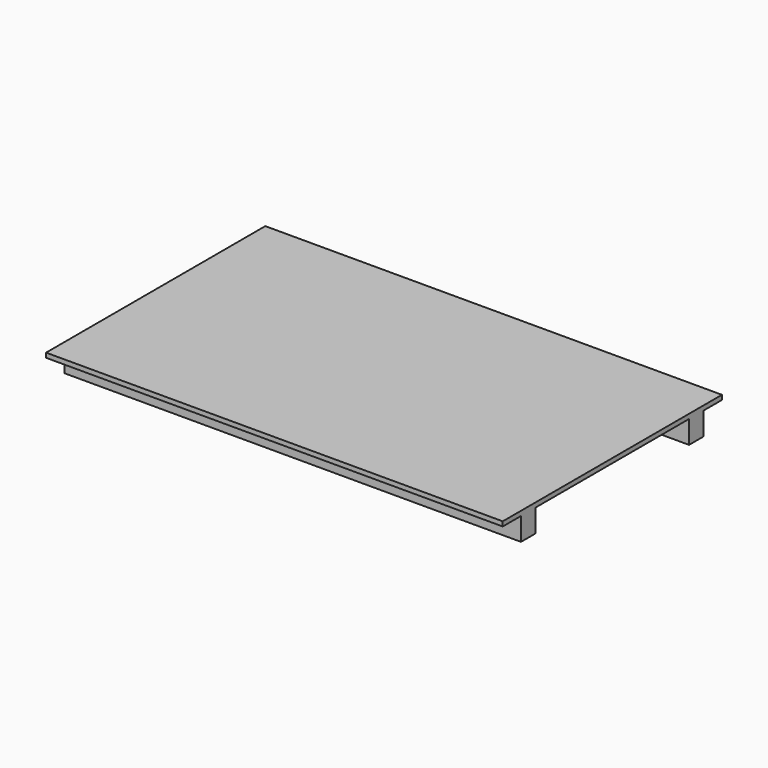
from build123d import *

# Parameters (mm, degrees)
F0_W     = 5000
F0_H     = 3000
F1_DEPTH = 50
F2_W     = 5000
F2_H     = 200
F3_DEPTH = 250


with BuildPart() as f1:
    # F0 (on Top) → F1 (new body)
    with BuildSketch(Plane.XY):
        with Locations((2500, -1500)):
            Rectangle(F0_W, F0_H)
        with Locations((2500, -1500)):
            Rectangle(F0_W, F0_H)
    extrude(amount=F1_DEPTH)

    # F2 (on face) → F3 (join)
    with BuildSketch(Plane(origin=(0, 0, 0), x_dir=(1, 0, 0), z_dir=(0, 0, -1))):
        with Locations((2500, 2650)):
            Rectangle(F2_W, F2_H)
        with Locations((2500, 350)):
            Rectangle(F2_W, F2_H)
    extrude(amount=F3_DEPTH)


solid = f1.part
